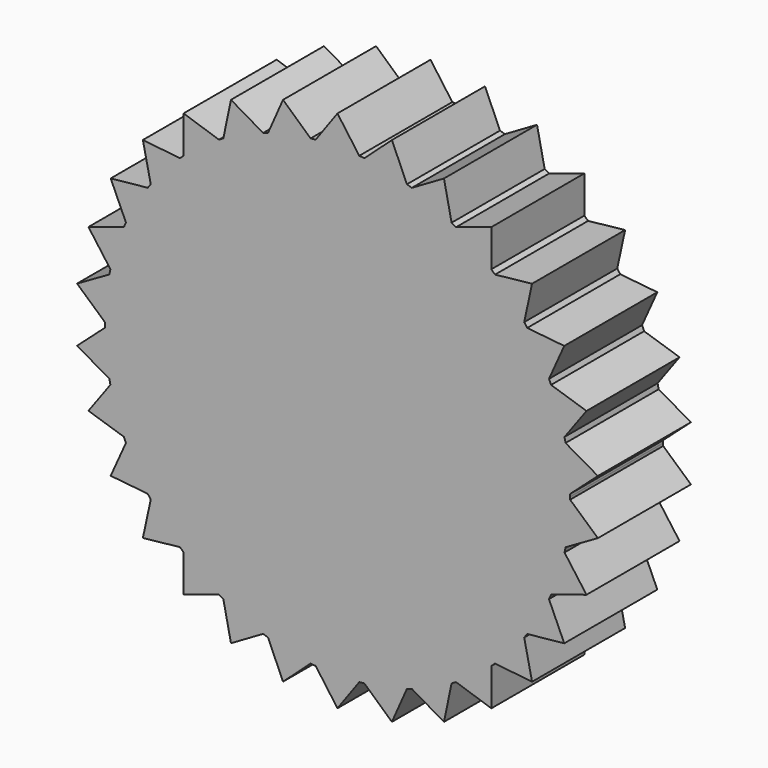
from build123d import *

# Parameters (mm, degrees)
F1_DEPTH = 12.7


with BuildPart() as f1:
    # F0 (on Front) → F1 (new body)
    with BuildSketch(Plane.XZ):
        with BuildLine():
            ThreePointArc((25.398479, -0.277923), (25.39962, -0.138964), (25.4, 0))
            ThreePointArc((25.4, 0), (25.39962, 0.138964), (25.398479, 0.277923))
            ThreePointArc((25.398479, 0.277923), (25.260856, 2.655023), (24.901245, 5.008791))
            ThreePointArc((24.901245, 5.008791), (24.844949, 5.280957), (24.785678, 5.552491))
            ThreePointArc((24.785678, 5.552491), (24.156836, 7.849032), (23.315707, 10.076597))
            ThreePointArc((23.315707, 10.076597), (23.204055, 10.331111), (23.089624, 10.584388))
            ThreePointArc((23.089624, 10.584388), (21.997045, 12.7), (20.711161, 14.704007))
            ThreePointArc((20.711161, 14.704007), (20.549032, 14.929745), (20.384442, 15.153696))
            ThreePointArc((20.384442, 15.153696), (18.875879, 16.995917), (17.201437, 18.688782))
            ThreePointArc((17.201437, 18.688782), (16.995917, 18.875879), (16.788363, 19.060715))
            ThreePointArc((16.788363, 19.060715), (14.929745, 20.549032), (12.939928, 21.856767))
            ThreePointArc((12.939928, 21.856767), (12.7, 21.997045), (12.458551, 22.13469))
            ThreePointArc((12.458551, 22.13469), (10.331111, 23.204055), (8.112882, 24.069506))
            ThreePointArc((8.112882, 24.069506), (7.849032, 24.156836), (7.584241, 24.241272))
            ThreePointArc((7.584241, 24.241272), (5.280957, 24.844949), (2.931265, 25.230293))
            ThreePointArc((2.931265, 25.230293), (2.655023, 25.260856), (2.378463, 25.288395))
            ThreePointArc((2.378463, 25.288395), (0, 25.4), (-2.378463, 25.288395))
            ThreePointArc((-2.378463, 25.288395), (-2.655023, 25.260856), (-2.931265, 25.230293))
            ThreePointArc((-2.931265, 25.230293), (-5.280957, 24.844949), (-7.584241, 24.241272))
            ThreePointArc((-7.584241, 24.241272), (-7.849032, 24.156836), (-8.112882, 24.069506))
            ThreePointArc((-8.112882, 24.069506), (-10.331111, 23.204055), (-12.458551, 22.13469))
            ThreePointArc((-12.458551, 22.13469), (-12.7, 21.997045), (-12.939928, 21.856767))
            ThreePointArc((-12.939928, 21.856767), (-14.929745, 20.549032), (-16.788363, 19.060715))
            ThreePointArc((-16.788363, 19.060715), (-16.995917, 18.875879), (-17.201437, 18.688782))
            ThreePointArc((-17.201437, 18.688782), (-18.875879, 16.995917), (-20.384442, 15.153696))
            ThreePointArc((-20.384442, 15.153696), (-20.549032, 14.929745), (-20.711161, 14.704007))
            ThreePointArc((-20.711161, 14.704007), (-21.997045, 12.7), (-23.089624, 10.584388))
            ThreePointArc((-23.089624, 10.584388), (-23.204055, 10.331111), (-23.315707, 10.076597))
            ThreePointArc((-23.315707, 10.076597), (-24.156836, 7.849032), (-24.785678, 5.552491))
            ThreePointArc((-24.785678, 5.552491), (-24.844949, 5.280957), (-24.901245, 5.008791))
            ThreePointArc((-24.901245, 5.008791), (-25.260856, 2.655023), (-25.398479, 0.277923))
            ThreePointArc((-25.398479, 0.277923), (-25.4, 0), (-25.398479, -0.277923))
            ThreePointArc((-25.398479, -0.277923), (-25.260856, -2.655023), (-24.901245, -5.008791))
            ThreePointArc((-24.901245, -5.008791), (-24.844949, -5.280957), (-24.785678, -5.552491))
            ThreePointArc((-24.785678, -5.552491), (-24.156836, -7.849032), (-23.315707, -10.076597))
            ThreePointArc((-23.315707, -10.076597), (-23.204055, -10.331111), (-23.089624, -10.584388))
            ThreePointArc((-23.089624, -10.584388), (-21.997045, -12.7), (-20.711161, -14.704007))
            ThreePointArc((-20.711161, -14.704007), (-20.549032, -14.929745), (-20.384442, -15.153696))
            ThreePointArc((-20.384442, -15.153696), (-18.875879, -16.995917), (-17.201437, -18.688782))
            ThreePointArc((-17.201437, -18.688782), (-16.995917, -18.875879), (-16.788363, -19.060715))
            ThreePointArc((-16.788363, -19.060715), (-14.929745, -20.549032), (-12.939928, -21.856767))
            ThreePointArc((-12.939928, -21.856767), (-12.7, -21.997045), (-12.458551, -22.13469))
            ThreePointArc((-12.458551, -22.13469), (-10.331111, -23.204055), (-8.112882, -24.069506))
            ThreePointArc((-8.112882, -24.069506), (-7.849032, -24.156836), (-7.584241, -24.241272))
            ThreePointArc((-7.584241, -24.241272), (-5.280957, -24.844949), (-2.931265, -25.230293))
            ThreePointArc((-2.931265, -25.230293), (-2.655023, -25.260856), (-2.378463, -25.288395))
            ThreePointArc((-2.378463, -25.288395), (0, -25.4), (2.378463, -25.288395))
            ThreePointArc((2.378463, -25.288395), (2.655023, -25.260856), (2.931265, -25.230293))
            ThreePointArc((2.931265, -25.230293), (5.280957, -24.844949), (7.584241, -24.241272))
            ThreePointArc((7.584241, -24.241272), (7.849032, -24.156836), (8.112882, -24.069506))
            ThreePointArc((8.112882, -24.069506), (10.331111, -23.204055), (12.458551, -22.13469))
            ThreePointArc((12.458551, -22.13469), (12.7, -21.997045), (12.939928, -21.856767))
            ThreePointArc((12.939928, -21.856767), (14.929745, -20.549032), (16.788363, -19.060715))
            ThreePointArc((16.788363, -19.060715), (16.995917, -18.875879), (17.201437, -18.688782))
            ThreePointArc((17.201437, -18.688782), (18.875879, -16.995917), (20.384442, -15.153696))
            ThreePointArc((20.384442, -15.153696), (20.549032, -14.929745), (20.711161, -14.704007))
            ThreePointArc((20.711161, -14.704007), (21.997045, -12.7), (23.089624, -10.584388))
            ThreePointArc((23.089624, -10.584388), (23.204055, -10.331111), (23.315707, -10.076597))
            ThreePointArc((23.315707, -10.076597), (24.156836, -7.849032), (24.785678, -5.552491))
            ThreePointArc((24.785678, -5.552491), (24.844949, -5.280957), (24.901245, -5.008791))
            ThreePointArc((24.901245, -5.008791), (25.260856, -2.655023), (25.398479, -0.277923))
        make_face()
        with BuildLine():
            ThreePointArc((24.901245, 5.008791), (25.260856, 2.655023), (25.398479, 0.277923))
            Line((25.398479, 0.277923), (28.427847, 2.987887))
            Line((28.427847, 2.987887), (24.901245, 5.008791))
        make_face()
        with BuildLine():
            Line((28.427847, -2.987887), (25.398479, -0.277923))
            ThreePointArc((25.398479, -0.277923), (25.260856, -2.655023), (24.901245, -5.008791))
            Line((24.901245, -5.008791), (28.427847, -2.987887))
        make_face()
        with BuildLine():
            ThreePointArc((23.315707, 10.076597), (24.156836, 7.849032), (24.785678, 5.552491))
            Line((24.785678, 5.552491), (27.185414, 8.833076))
            Line((27.185414, 8.833076), (23.315707, 10.076597))
        make_face()
        with BuildLine():
            Line((27.185414, -8.833076), (24.785678, -5.552491))
            ThreePointArc((24.785678, -5.552491), (24.156836, -7.849032), (23.315707, -10.076597))
            Line((23.315707, -10.076597), (27.185414, -8.833076))
        make_face()
        with BuildLine():
            ThreePointArc((20.711161, 14.704007), (21.997045, 12.7), (23.089624, 10.584388))
            Line((23.089624, 10.584388), (24.754847, 14.292218))
            Line((24.754847, 14.292218), (20.711161, 14.704007))
        make_face()
        with BuildLine():
            Line((24.754847, -14.292218), (23.089624, -10.584388))
            ThreePointArc((23.089624, -10.584388), (21.997045, -12.7), (20.711161, -14.704007))
            Line((20.711161, -14.704007), (24.754847, -14.292218))
        make_face()
        with BuildLine():
            ThreePointArc((17.201437, 18.688782), (18.875879, 16.995917), (20.384442, 15.153696))
            Line((20.384442, 15.153696), (21.242375, 19.126721))
            Line((21.242375, 19.126721), (17.201437, 18.688782))
        make_face()
        with BuildLine():
            Line((21.242375, -19.126721), (20.384442, -15.153696))
            ThreePointArc((20.384442, -15.153696), (18.875879, -16.995917), (17.201437, -18.688782))
            Line((17.201437, -18.688782), (21.242375, -19.126721))
        make_face()
        with BuildLine():
            ThreePointArc((12.939928, 21.856767), (14.929745, 20.549032), (16.788363, 19.060715))
            Line((16.788363, 19.060715), (16.80151, 23.125294))
            Line((16.80151, 23.125294), (12.939928, 21.856767))
        make_face()
        with BuildLine():
            Line((16.80151, -23.125294), (16.788363, -19.060715))
            ThreePointArc((16.788363, -19.060715), (14.929745, -20.549032), (12.939928, -21.856767))
            Line((12.939928, -21.856767), (16.80151, -23.125294))
        make_face()
        with BuildLine():
            ThreePointArc((8.112882, 24.069506), (10.331111, 23.204055), (12.458551, 22.13469))
            Line((12.458551, 22.13469), (11.626337, 26.113181))
            Line((11.626337, 26.113181), (8.112882, 24.069506))
        make_face()
        with BuildLine():
            Line((11.626337, -26.113181), (12.458551, -22.13469))
            ThreePointArc((12.458551, -22.13469), (10.331111, -23.204055), (8.112882, -24.069506))
            Line((8.112882, -24.069506), (11.626337, -26.113181))
        make_face()
        with BuildLine():
            ThreePointArc((2.931265, 25.230293), (5.280957, 24.844949), (7.584241, 24.241272))
            Line((7.584241, 24.241272), (5.943038, 27.959797))
            Line((5.943038, 27.959797), (2.931265, 25.230293))
        make_face()
        with BuildLine():
            Line((5.943038, -27.959797), (7.584241, -24.241272))
            ThreePointArc((7.584241, -24.241272), (5.280957, -24.844949), (2.931265, -25.230293))
            Line((2.931265, -25.230293), (5.943038, -27.959797))
        make_face()
        with BuildLine():
            ThreePointArc((-2.378463, 25.288395), (0, 25.4), (2.378463, 25.288395))
            Line((2.378463, 25.288395), (0, 28.584436))
            Line((0, 28.584436), (-2.378463, 25.288395))
        make_face()
        with BuildLine():
            Line((0, -28.584436), (2.378463, -25.288395))
            ThreePointArc((2.378463, -25.288395), (0, -25.4), (-2.378463, -25.288395))
            Line((-2.378463, -25.288395), (0, -28.584436))
        make_face()
        with BuildLine():
            ThreePointArc((-7.584241, 24.241272), (-5.280957, 24.844949), (-2.931265, 25.230293))
            Line((-2.931265, 25.230293), (-5.943038, 27.959797))
            Line((-5.943038, 27.959797), (-7.584241, 24.241272))
        make_face()
        with BuildLine():
            Line((-5.943038, -27.959797), (-2.931265, -25.230293))
            ThreePointArc((-2.931265, -25.230293), (-5.280957, -24.844949), (-7.584241, -24.241272))
            Line((-7.584241, -24.241272), (-5.943038, -27.959797))
        make_face()
        with BuildLine():
            ThreePointArc((-12.458551, 22.13469), (-10.331111, 23.204055), (-8.112882, 24.069506))
            Line((-8.112882, 24.069506), (-11.626337, 26.113181))
            Line((-11.626337, 26.113181), (-12.458551, 22.13469))
        make_face()
        with BuildLine():
            Line((-11.626337, -26.113181), (-8.112882, -24.069506))
            ThreePointArc((-8.112882, -24.069506), (-10.331111, -23.204055), (-12.458551, -22.13469))
            Line((-12.458551, -22.13469), (-11.626337, -26.113181))
        make_face()
        with BuildLine():
            ThreePointArc((-16.788363, 19.060715), (-14.929745, 20.549032), (-12.939928, 21.856767))
            Line((-12.939928, 21.856767), (-16.80151, 23.125294))
            Line((-16.80151, 23.125294), (-16.788363, 19.060715))
        make_face()
        with BuildLine():
            Line((-16.80151, -23.125294), (-12.939928, -21.856767))
            ThreePointArc((-12.939928, -21.856767), (-14.929745, -20.549032), (-16.788363, -19.060715))
            Line((-16.788363, -19.060715), (-16.80151, -23.125294))
        make_face()
        with BuildLine():
            ThreePointArc((-20.384442, 15.153696), (-18.875879, 16.995917), (-17.201437, 18.688782))
            Line((-17.201437, 18.688782), (-21.242375, 19.126721))
            Line((-21.242375, 19.126721), (-20.384442, 15.153696))
        make_face()
        with BuildLine():
            Line((-21.242375, -19.126721), (-17.201437, -18.688782))
            ThreePointArc((-17.201437, -18.688782), (-18.875879, -16.995917), (-20.384442, -15.153696))
            Line((-20.384442, -15.153696), (-21.242375, -19.126721))
        make_face()
        with BuildLine():
            ThreePointArc((-23.089624, 10.584388), (-21.997045, 12.7), (-20.711161, 14.704007))
            Line((-20.711161, 14.704007), (-24.754847, 14.292218))
            Line((-24.754847, 14.292218), (-23.089624, 10.584388))
        make_face()
        with BuildLine():
            Line((-24.754847, -14.292218), (-20.711161, -14.704007))
            ThreePointArc((-20.711161, -14.704007), (-21.997045, -12.7), (-23.089624, -10.584388))
            Line((-23.089624, -10.584388), (-24.754847, -14.292218))
        make_face()
        with BuildLine():
            ThreePointArc((-24.785678, 5.552491), (-24.156836, 7.849032), (-23.315707, 10.076597))
            Line((-23.315707, 10.076597), (-27.185414, 8.833076))
            Line((-27.185414, 8.833076), (-24.785678, 5.552491))
        make_face()
        with BuildLine():
            Line((-27.185414, -8.833076), (-23.315707, -10.076597))
            ThreePointArc((-23.315707, -10.076597), (-24.156836, -7.849032), (-24.785678, -5.552491))
            Line((-24.785678, -5.552491), (-27.185414, -8.833076))
        make_face()
        with BuildLine():
            ThreePointArc((-25.398479, 0.277923), (-25.260856, 2.655023), (-24.901245, 5.008791))
            Line((-24.901245, 5.008791), (-28.427847, 2.987887))
            Line((-28.427847, 2.987887), (-25.398479, 0.277923))
        make_face()
        with BuildLine():
            Line((-28.427847, -2.987887), (-24.901245, -5.008791))
            ThreePointArc((-24.901245, -5.008791), (-25.260856, -2.655023), (-25.398479, -0.277923))
            Line((-25.398479, -0.277923), (-28.427847, -2.987887))
        make_face()
    extrude(amount=F1_DEPTH)


solid = f1.part
